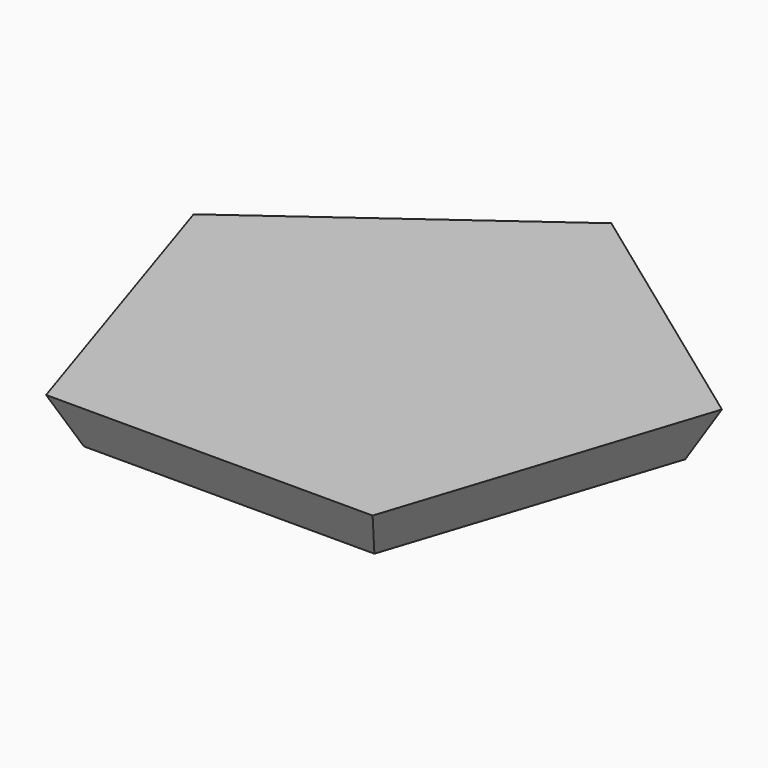
from build123d import *

# Parameters (mm, degrees)
F1_DEPTH = 10
F1_TAPER = -26.56505118


with BuildPart() as f1:
    # F0 (on Top) → F1 (new body)
    with BuildSketch(Plane.XY):
        Polygon((0, 49.911), (-47.4681817848, 15.4233472062), (-29.3369497272, -40.3788472062), (29.3369497272, -40.3788472062), (47.4681817848, 15.4233472062), align=None)
    extrude(amount=F1_DEPTH, taper=F1_TAPER)


solid = f1.part
